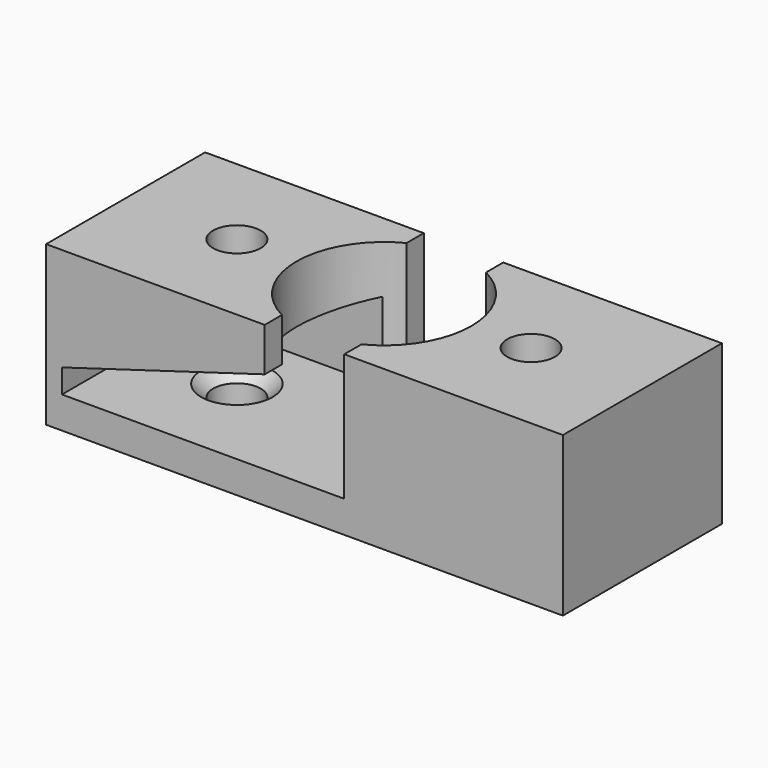
from build123d import *

# Parameters (mm, degrees)
SKETCH_W             = 65
SKETCH_H             = 24.999
PAD_DEPTH            = 19.999
POCKET_DEPTH         = 20.9992
POCKET001_DEPTH      = 20.9992
SKETCH003_R          = 10.9995
POCKET002_DEPTH      = 15.9992
SKETCH004_W          = 9.9995
SKETCH004_H          = 15.9992
POCKET003_DEPTH      = 12.5005
POCKET003_DEPTH_BACK = -12.5005
SKETCH005_R          = 3
POCKET004_DEPTH      = 20
CHAMFER_SIZE         = 1.5


with BuildPart() as part:
    # Sketch → Pad (new body)
    with BuildSketch(Plane.XY):
        Rectangle(SKETCH_W, SKETCH_H)
    extrude(amount=PAD_DEPTH)

    # Sketch001 → Pocket (cut)
    with BuildSketch(Plane.XZ.offset(-8.4997)):
        Polygon((0, 3.9998), (-30.5, 3.9998), (-30.5, 6.9996), (0, 15.9992), align=None)
    extrude(amount=POCKET_DEPTH, mode=Mode.SUBTRACT)

    # Sketch002 → Pocket001 (cut)
    with BuildSketch(Plane.XZ.offset(8.4997)):
        Polygon((0, 3.9998), (0, 15.9992), (30.5, 6.9996), (30.5, 3.9998), align=None)
    extrude(amount=-POCKET001_DEPTH, mode=Mode.SUBTRACT)

    # Sketch003 → Pocket002 (cut)
    with BuildSketch(Plane.XY.offset(19.999)):
        Circle(SKETCH003_R)
    extrude(amount=-POCKET002_DEPTH, mode=Mode.SUBTRACT)

    # Sketch004 → Pocket003 (cut, two sides)
    with BuildSketch(Plane.XZ) as pocket003_sk:
        with Locations((0, 11.9994)):
            Rectangle(SKETCH004_W, SKETCH004_H)
    extrude(amount=-POCKET003_DEPTH, mode=Mode.SUBTRACT)
    extrude(pocket003_sk.sketch, amount=-POCKET003_DEPTH_BACK, mode=Mode.SUBTRACT)

    # Sketch005 → Pocket004 (cut, through all)
    with BuildSketch(Plane.XY.offset(19.999)):
        with Locations((-18.5, 0)):
            Circle(SKETCH005_R)
        with Locations((18.5, 0)):
            Circle(SKETCH005_R)
    extrude(amount=-POCKET004_DEPTH, mode=Mode.SUBTRACT)

    # Chamfer
    chamfer_edges = [part.edges().sort_by_distance(p)[0] for p in [
        (-21.5, 0, 3.9998),
        (15.5, 0, 3.9998),
    ]]
    chamfer(chamfer_edges, length=CHAMFER_SIZE)


solid = part.part
